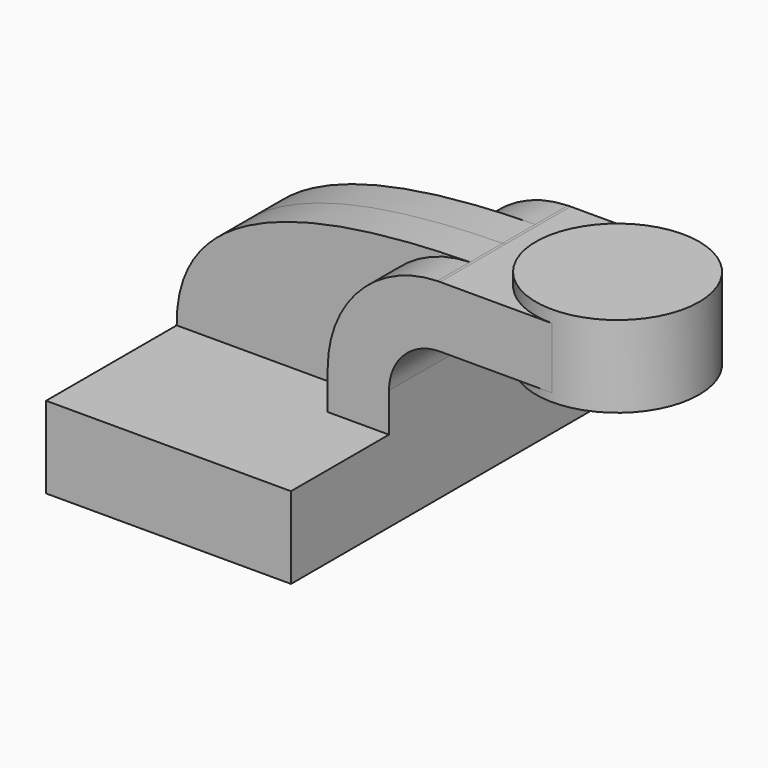
from build123d import *

# Parameters (mm, degrees)
F1_DEPTH = 63.5
F2_DEPTH = 12.7
F0_W     = 25.4
F0_H     = 19.05
F3_DEPTH = 25.4


with BuildPart() as f1:
    # F0 (on Front) → F1 (new body, symmetric)
    with BuildSketch(Plane.XZ):
        Polygon((38.1, -12.7), (38.1, 12.7), (19.05, 12.7), (-38.1, 12.7), (-38.1, -12.7), align=None)
    extrude(amount=F1_DEPTH, both=True)

    # F0 (on Front) → F2 (join, symmetric)
    with BuildSketch(Plane.XZ):
        with BuildLine():
            Line((-38.1, 12.7), (19.05, 12.7))
            Line((19.05, 12.7), (19.05, 24.765))
            ThreePointArc((19.05, 24.765), (28.9881633288, 49.1660987082), (53.1466996803, 59.6801764077))
            add(Edge.make_bspline(
                [(-38.1, 12.7), (-38.4659506113, 42.7773494119), (-9.3436090352, 58.8699288364), (53.1466996803, 59.6801764077)],
                knots=[0, 0, 0, 0, 102.9188043099, 102.9188043099, 102.9188043099, 102.9188043099], degree=3))
        make_face()
    extrude(amount=F2_DEPTH, both=True)

    # F0 (on Front) → F3 (join, symmetric)
    with BuildSketch(Plane.XZ):
        with BuildLine():
            Line((19.05, 12.7), (38.1, 12.7))
            Line((38.1, 12.7), (38.1, 24.765))
            ThreePointArc((38.1, 24.765), (42.7496798487, 35.9903201513), (53.975, 40.64))
            Line((53.975, 40.64), (63.5, 40.64))
            Line((63.5, 40.64), (63.5, 59.69))
            Line((63.5, 59.69), (53.975, 59.69))
            add(Edge.make_bspline(
                [(53.1466996803, 59.6801764077), (53.4221513474, 59.6837479062), (53.6982513432, 59.687022474), (53.975, 59.69)],
                knots=[102.9188043099, 102.9188043099, 102.9188043099, 102.9188043099, 103.3724611538, 103.3724611538, 103.3724611538, 103.3724611538], degree=3))
            ThreePointArc((53.1466996803, 59.6801764077), (28.9881633288, 49.1660987082), (19.05, 24.765))
            Line((19.05, 24.765), (19.05, 12.7))
        make_face()
        with Locations((76.2, 50.165)):
            Rectangle(F0_W, F0_H)
    extrude(amount=F3_DEPTH, both=True)

    # F0 (on Front) → F4 (revolve)
    with BuildSketch(Plane.XZ):
        Polygon((88.9, 59.69), (88.9, 40.64), (88.9, 38.1), (114.3, 38.1), (114.3, 63.5), (88.9, 63.5), align=None)
    revolve(axis=Axis((88.9, 0, 50.8), (0, 0, -1)))


solid = f1.part
